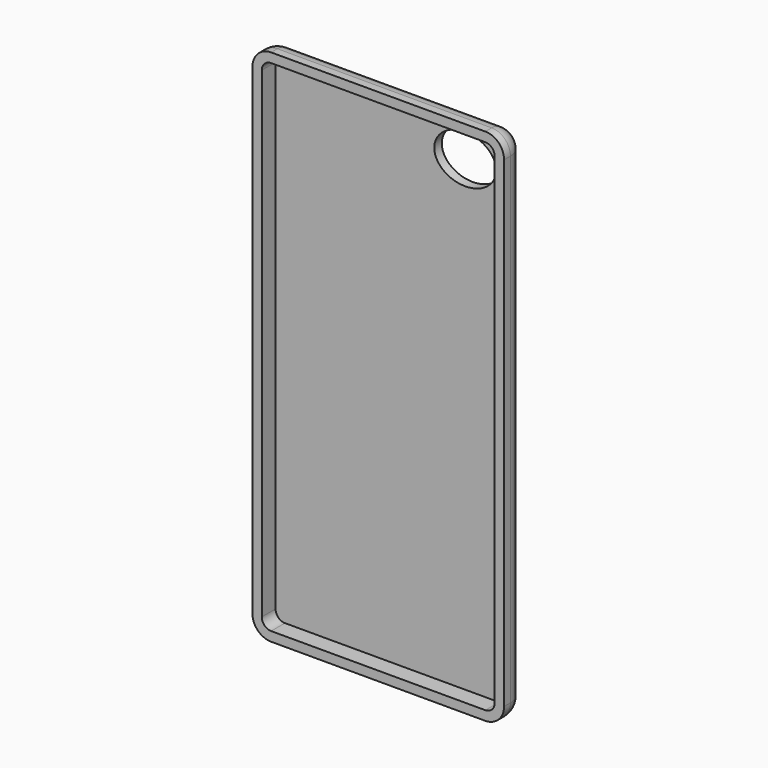
from build123d import *

# Parameters (mm, degrees)
F0_W     = 67.1
F0_H     = 138.3
F1_DEPTH = 3.55
F2_R     = 5
F3_T     = -2.5
F4_R     = 5
F6_DEPTH = 25


with BuildPart() as f1:
    # F0 (on Front) → F1 (new body, symmetric)
    with BuildSketch(Plane.XZ):
        with Locations((0, -4.651891)):
            Rectangle(F0_W, F0_H)
    extrude(amount=F1_DEPTH, both=True)

    # F2
    f2_edges = [f1.edges().sort_by_distance(p)[0] for p in [
        (-33.55, 0, 64.498109),
        (33.55, 0, 64.498109),
        (33.55, 0, -73.801891),
        (-33.55, 0, -73.801891),
    ]]
    fillet(f2_edges, radius=F2_R)

    # F3
    f3_openings = [f1.faces().sort_by_distance(p)[0] for p in [
        (0, -3.55, -4.651891),
    ]]
    offset(amount=F3_T, openings=f3_openings)

    # F4
    f4_edges = [f1.edges().sort_by_distance(p)[0] for p in [
        (33.55, 3.55, -4.651891),
        (32.085534, 3.55, -72.337424),
        (32.085534, 3.55, 63.033643),
        (0, 3.55, -73.801891),
        (0, 3.55, 64.498109),
        (-32.085534, 3.55, -72.337424),
        (-32.085534, 3.55, 63.033643),
        (-33.55, 3.55, -4.651891),
    ]]
    fillet(f4_edges, radius=F4_R)

    # F5 (on Front) → F6 (cut)
    with BuildSketch(Plane.XZ):
        with BuildLine():
            add(Edge.make_bspline(
                [(27.755955, 53.217217), (27.755955, 64.267715), (15.384319, 58.742466), (3.012683, 53.217217), (15.384319, 47.691968), (27.755955, 42.166719), (27.755955, 53.217217)],
                knots=[0, 0, 0, 2.094395, 2.094395, 4.18879, 4.18879, 6.283185, 6.283185, 6.283185], degree=2, weights=[1, 0.5, 1, 0.5, 1, 0.5, 1]))
        make_face()
    extrude(amount=-F6_DEPTH, mode=Mode.SUBTRACT)


solid = f1.part
